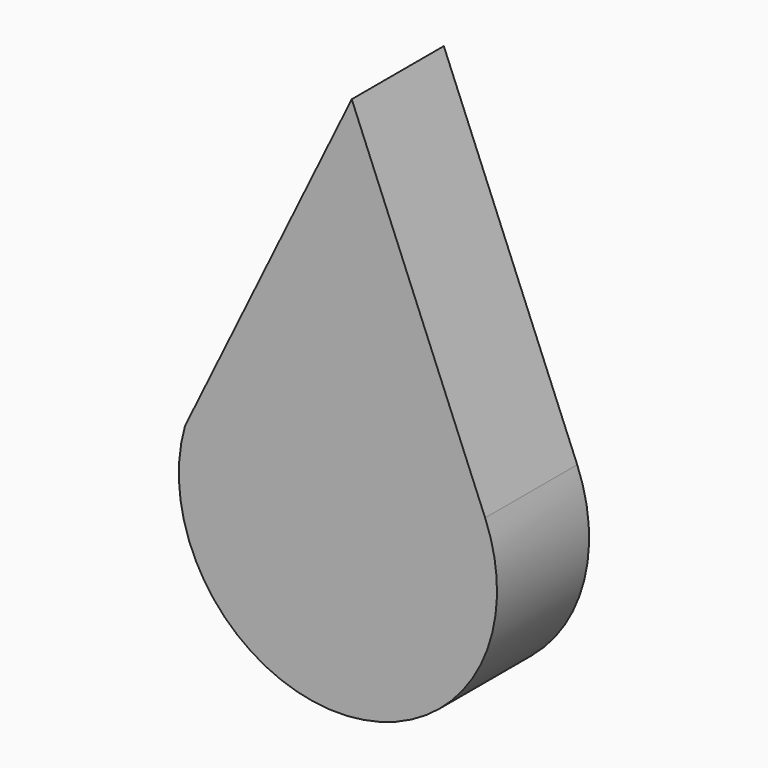
from build123d import *

# Parameters (mm, degrees)
F1_DEPTH = 1.27


with BuildPart() as f1:
    # F0 (on Front) → F1 (new body)
    with BuildSketch(Plane.XZ):
        with BuildLine():
            Line((-26.68071, -7.182141), (-28.520567, -10.953849))
            ThreePointArc((-28.520567, -10.953849), (-26.735424, -13.18873), (-25.208822, -10.769864))
            Line((-25.208822, -10.769864), (-26.68071, -7.182141))
        make_face()
    extrude(amount=-F1_DEPTH)


solid = f1.part
